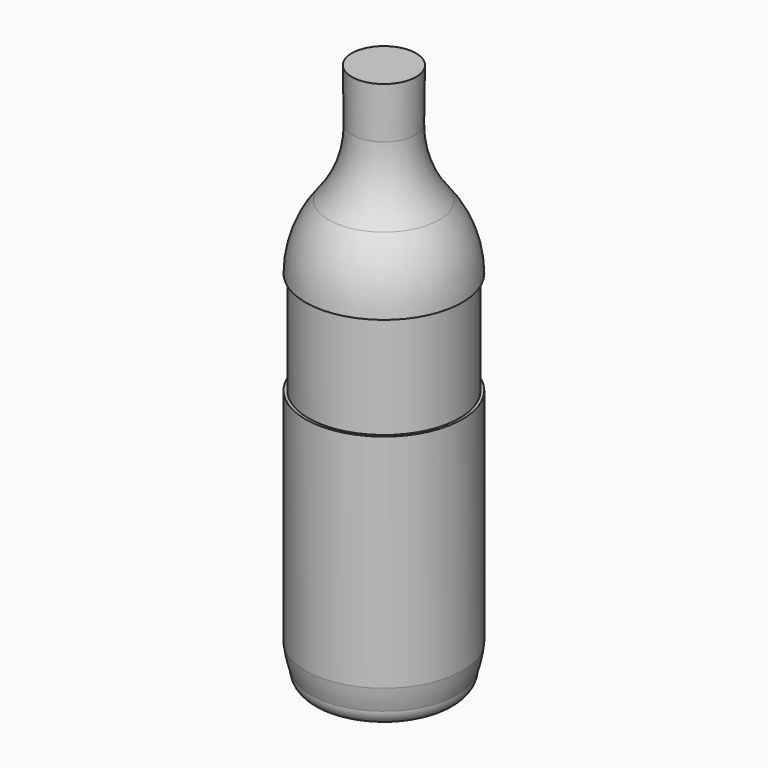
from build123d import *


with BuildPart() as f1:
    # F0 (on Front) → F1 (revolve)
    with BuildSketch(Plane.XZ):
        with BuildLine():
            Line((-1589.263953, 1474.668989), (-1589.263953, 1218.163099))
            ThreePointArc((-1589.263953, 1218.163099), (-1570.451639, 1103.870625), (-1540.168527, 992.068989))
            ThreePointArc((-1540.168527, 992.068989), (-1422.067172, 843.57871), (-1250.806808, 925.231516))
            ThreePointArc((-1250.806808, 925.231516), (-1042.262707, 1017.514822), (-814.563953, 1030.168989))
            Line((-814.563953, 1030.168989), (-814.563953, 6237.168989))
            Line((-814.563953, 6237.168989), (-1132.063953, 6237.168989))
            Line((-1132.063953, 6237.168989), (-1125.269349, 5729.214431))
            ThreePointArc((-1125.269349, 5729.214431), (-1183.254084, 5377.044539), (-1359.451765, 5066.657299))
            ThreePointArc((-1359.451765, 5066.657299), (-1530.087557, 4764.780066), (-1589.263953, 4423.100989))
            Line((-1589.263953, 4423.100989), (-1561.323953, 4423.100989))
            Line((-1561.323953, 4423.100989), (-1561.323953, 3407.100989))
            Line((-1561.323953, 3407.100989), (-1589.263953, 3407.100989))
            Line((-1589.263953, 3407.100989), (-1589.263953, 1474.668989))
        make_face()
    revolve(axis=Axis((-814.563953, 0, 3633.668989), (0, 0, 1)))


solid = f1.part
